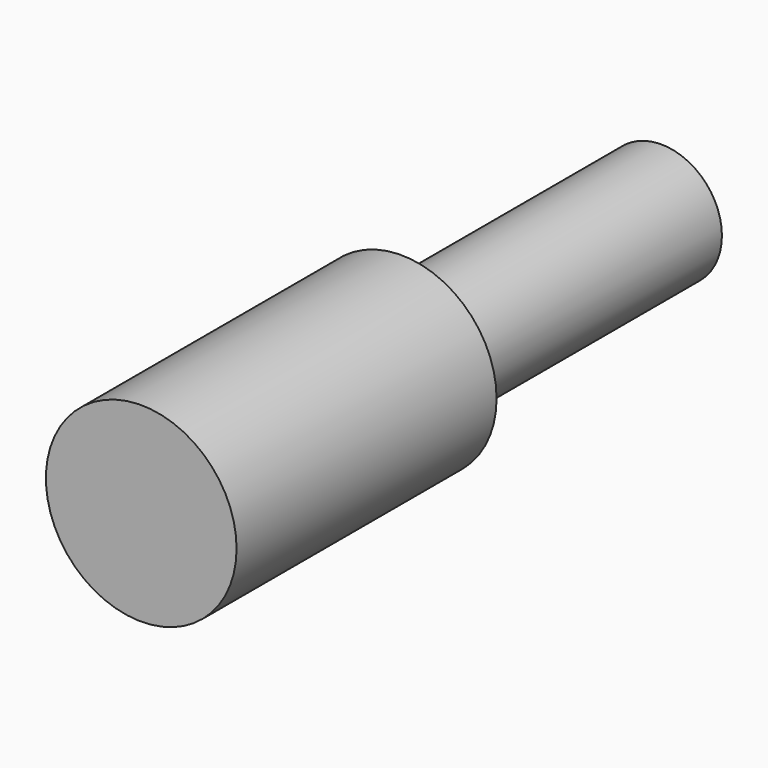
from build123d import *

# Parameters (mm, degrees)
F0_R     = 1.778
F3_DEPTH = 9.525
F2_R     = 2.794
F4_DEPTH = 9.525


with BuildPart() as f3:
    # F0 (on Front) → F3 (new body)
    with BuildSketch(Plane.XZ):
        Circle(F0_R)
    extrude(amount=F3_DEPTH)


with BuildPart() as f4:
    # F2 (on offset) → F4 (new body)
    with BuildSketch(Plane.XZ.offset(19.05)):
        Circle(F2_R)
    extrude(amount=-F4_DEPTH)


solid = Compound([f3.part, f4.part])
